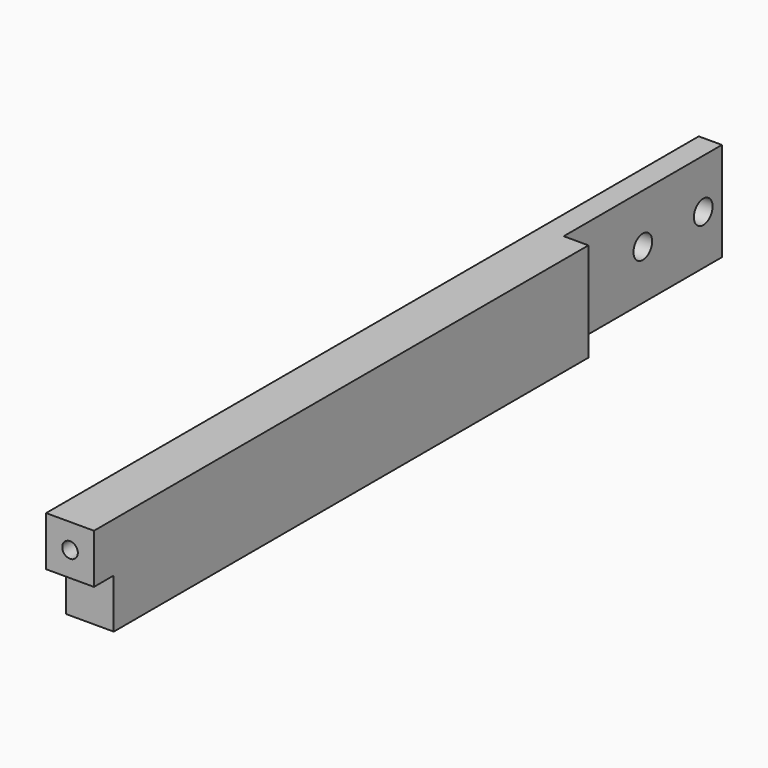
from build123d import *

# Parameters (mm, degrees)
SKETCH014_W     = 12.3
SKETCH014_H     = 209.55
PAD003_DEPTH    = 25.4
SKETCH015_W     = 12.3
SKETCH015_H     = 6.35
POCKET011_DEPTH = 12.7
SKETCH016_R     = 2
POCKET012_DEPTH = 10
SKETCH017_W     = 6.35
SKETCH017_H     = 50.8
POCKET013_DEPTH = 25.401
SKETCH018_R     = 3
POCKET014_DEPTH = 5.951
CHAMFER003_SIZE = 1.5


with BuildPart() as part:
    # Sketch014 → Pad003 (new body)
    with BuildSketch(Plane.XY):
        with Locations((-82.55, 111.125)):
            Rectangle(SKETCH014_W, SKETCH014_H)
    extrude(amount=PAD003_DEPTH)

    # Sketch015 (on Face5 of Pad003) → Pocket011 (cut)
    with BuildSketch(Plane(origin=(0, 0, 0), x_dir=(1, 0, 0), z_dir=(0, 0, -1))):
        with Locations((-82.55, -9.525)):
            Rectangle(SKETCH015_W, SKETCH015_H)
    extrude(amount=-POCKET011_DEPTH, mode=Mode.SUBTRACT)

    # Sketch016 (on Face1 of Pocket011) → Pocket012 (cut)
    with BuildSketch(Plane.XZ.offset(-6.35)):
        with Locations((-82.55, 19.05)):
            Circle(SKETCH016_R)
    extrude(amount=-POCKET012_DEPTH, mode=Mode.SUBTRACT)

    # Sketch017 (on Face5 of Pocket012) → Pocket013 (cut, through all)
    with BuildSketch(Plane.XY.offset(25.4)):
        with Locations((-79.575, 190.5)):
            Rectangle(SKETCH017_W, SKETCH017_H)
    extrude(amount=-POCKET013_DEPTH, mode=Mode.SUBTRACT)

    # Sketch018 (on Face11 of Pocket013) → Pocket014 (cut, through all)
    with BuildSketch(Plane.YZ.offset(-82.75)):
        with Locations((190.5, 12.7)):
            Circle(SKETCH018_R)
        with Locations((209.9, 12.7)):
            Circle(SKETCH018_R)
    extrude(amount=-POCKET014_DEPTH, mode=Mode.SUBTRACT)

    # Chamfer003
    chamfer003_edges = [part.edges().sort_by_distance(p)[0] for p in [
        (-88.7, 187.5, 12.7),
        (-88.7, 206.9, 12.7),
    ]]
    chamfer(chamfer003_edges, length=CHAMFER003_SIZE)


solid = part.part
